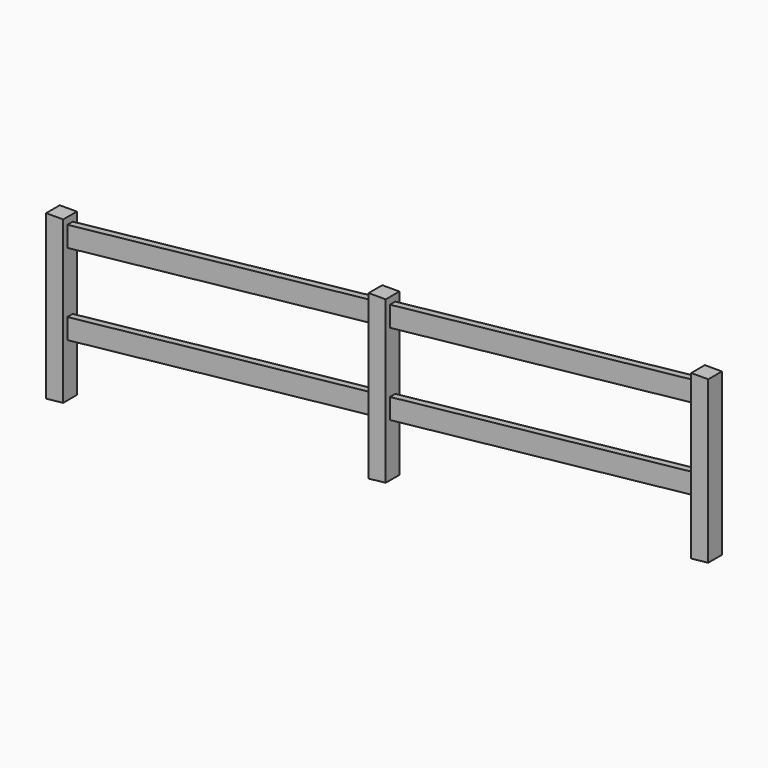
from build123d import *

# Parameters (mm, degrees)
F1_DEPTH      = 63.5
F1_DEPTH_BACK = 63.5
F2_DEPTH      = 25
F2_DEPTH_BACK = 25


with BuildPart() as f1:
    # F0 (on Front) → F1 (new body, two sides)
    with BuildSketch(Plane.XZ) as f1_sk:
        Polygon((11547.459713, 1569.920109), (11547.459713, 1720.776877), (11547.459713, 1771.062466), (11420.459713, 1771.062466), (11420.459713, 557.469194), (11547.459713, 571.062466), (11547.459713, 966.493036), (11547.459713, 1117.349804), align=None)
        Polygon((16340.085253, 1084.034619), (16340.085253, 2284.034619), (16213.085253, 2284.034619), (16213.085253, 2220.155757), (16213.085253, 2069.298989), (16213.085253, 1616.728685), (16213.085253, 1465.871916), (16213.085253, 1070.441347), align=None)
        Polygon((13943.772483, 1826.406185), (13943.772483, 1977.262953), (13943.772483, 2027.548542), (13816.772483, 2027.548542), (13816.772483, 1963.669681), (13816.772483, 1812.812913), (13816.772483, 1360.242608), (13816.772483, 1209.38584), (13816.772483, 813.95527), (13943.772483, 827.548542), (13943.772483, 1222.979112), (13943.772483, 1373.83588), align=None)
    extrude(amount=F1_DEPTH)
    extrude(f1_sk.sketch, amount=-F1_DEPTH_BACK)


with BuildPart() as f2:
    # F0 (on Front) → F2 (new body, two sides)
    with BuildSketch(Plane.XZ) as f2_sk:
        Polygon((13816.772483, 1812.812913), (13816.772483, 1963.669681), (11547.459713, 1720.776877), (11547.459713, 1569.920109), align=None)
        Polygon((11547.459713, 966.493036), (13816.772483, 1209.38584), (13816.772483, 1360.242608), (11547.459713, 1117.349804), align=None)
        Polygon((13943.772483, 1222.979112), (16213.085253, 1465.871916), (16213.085253, 1616.728685), (13943.772483, 1373.83588), align=None)
        Polygon((16213.085253, 2069.298989), (16213.085253, 2220.155757), (13943.772483, 1977.262953), (13943.772483, 1826.406185), align=None)
    extrude(amount=F2_DEPTH)
    extrude(f2_sk.sketch, amount=-F2_DEPTH_BACK)


solid = Compound([f1.part, f2.part])
